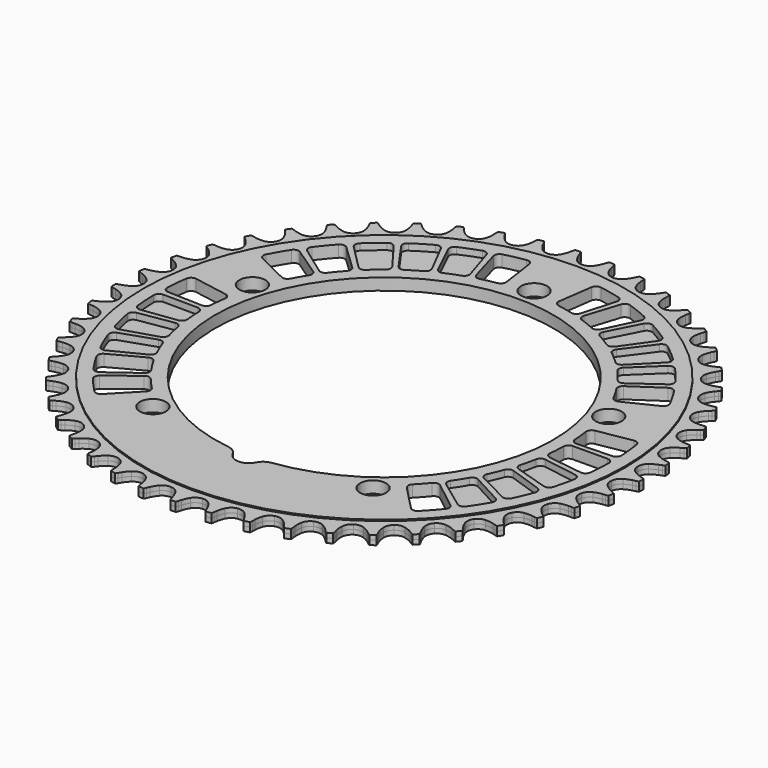
from build123d import *

# Parameters (mm, degrees)
F0_R     = 92.52693085
F1_DEPTH = 1.75
F0_R_2   = 5
F2_DEPTH = 2.25
F3_R     = 5.08
F5_DEPTH = 4.5
F6_DEPTH = 2.5
F7_R     = 2


with BuildPart() as f1:
    # F0 (on Top) → F1 (new body, symmetric)
    with BuildSketch(Plane.XY):
        with BuildLine():
            ThreePointArc((0, 95.02693085), (-1.8158450011, 95.4609959511), (-3.2390832139, 96.6693413361))
            ThreePointArc((-3.2390832139, 96.6693413361), (-4.0555243354, 97.9588456182), (-4.6743110338, 99.3540160092))
            Line((-4.6743110338, 99.3540160092), (-5.0611018288, 100.4543689823))
            ThreePointArc((-5.0611018288, 100.4543689823), (-5.2389551467, 100.905096531), (-5.4503528543, 101.3410989795))
            ThreePointArc((-5.4503528543, 101.3410989795), (-6.5023302484, 101.279042205), (-7.5536065668, 101.2060656109))
            ThreePointArc((-7.5536065668, 101.2060656109), (-7.7075139465, 100.7466097977), (-7.8262693315, 100.2768393384))
            Line((-7.8262693315, 100.2768393384), (-8.0691745644, 99.136058539))
            ThreePointArc((-8.0691745644, 99.136058539), (-8.5044706029, 97.6732137909), (-9.1493106065, 96.2898921479))
            ThreePointArc((-9.1493106065, 96.2898921479), (-10.4063442751, 94.9094675987), (-12.1517742007, 94.2467610613))
            ThreePointArc((-12.1517742007, 94.2467610613), (-14.0082181525, 94.4450573892), (-15.5742913775, 95.4614826121))
            ThreePointArc((-15.5742913775, 95.4614826121), (-16.5489276762, 96.6359959086), (-17.3410445741, 97.9405832833))
            Line((-17.3410445741, 97.9405832833), (-17.865369837, 98.9824406647))
            ThreePointArc((-17.865369837, 98.9824406647), (-18.0994007413, 99.4067243689), (-18.3648176322, 99.8121143046))
            ThreePointArc((-18.3648176322, 99.8121143046), (-19.4002226622, 99.616043132), (-20.4335359769, 99.409231443))
            ThreePointArc((-20.4335359769, 99.409231443), (-20.5274258738, 98.9338665167), (-20.5851333658, 98.4527667649))
            Line((-20.5851333658, 98.4527667649), (-20.6801645393, 97.2902897284))
            ThreePointArc((-20.6801645393, 97.2902897284), (-20.924822369, 95.7837904935), (-21.3874729996, 94.3293655926))
            ThreePointArc((-21.3874729996, 94.3293655926), (-22.457661666, 92.7995284123), (-24.104016605, 91.9190620616))
            ThreePointArc((-24.104016605, 91.9190620616), (-25.9705767492, 91.8783335959), (-27.6537701072, 92.6861489829))
            ThreePointArc((-27.6537701072, 92.6861489829), (-28.7705980821, 93.7263858179), (-29.7230386418, 94.9189688877))
            Line((-29.7230386418, 94.9189688877), (-30.3762889664, 95.8852234079))
            ThreePointArc((-30.3762889664, 95.8852234079), (-30.662654676, 96.276096541), (-30.9777326123, 96.6442174722))
            ThreePointArc((-30.9777326123, 96.6442174722), (-31.9795639563, 96.3173513848), (-32.9779472912, 95.9801004431))
            ThreePointArc((-32.9779472912, 95.9801004431), (-33.0102780358, 95.4966318828), (-33.0059900793, 95.012102483))
            Line((-33.0059900793, 95.012102483), (-32.9515867842, 93.8470170501))
            ThreePointArc((-32.9515867842, 93.8470170501), (-33.0015891303, 92.3216000043), (-33.2744536774, 90.8199534623))
            ThreePointArc((-33.2744536774, 90.8199534623), (-34.1402248732, 89.1658235349), (-35.660471723, 88.082054604))
            ThreePointArc((-35.660471723, 88.082054604), (-37.5064991936, 87.8029701052), (-39.2791746963, 88.3889113498))
            ThreePointArc((-39.2791746963, 88.3889113498), (-40.5198560628, 89.2777910632), (-41.6169812368, 90.338787647))
            Line((-41.6169812368, 90.338787647), (-42.3884302708, 91.2135734336))
            ThreePointArc((-42.3884302708, 91.2135734336), (-42.7224286687, 91.5646178696), (-43.0819940793, 91.8894252608))
            ThreePointArc((-43.0819940793, 91.8894252608), (-44.0338016943, 91.4371313907), (-44.9808616226, 90.9749788475))
            ThreePointArc((-44.9808616226, 90.9749788475), (-44.951102345, 90.4913451935), (-44.8848893482, 90.011342105))
            Line((-44.8848893482, 90.011342105), (-44.6819448851, 88.8627789464))
            ThreePointArc((-44.6819448851, 88.8627789464), (-44.5364707104, 87.3434913954), (-44.6150687458, 85.8192802069))
            ThreePointArc((-44.6150687458, 85.8192802069), (-45.2622065318, 84.0680183002), (-46.6313828812, 82.798742245))
            ThreePointArc((-46.6313828812, 82.798742245), (-48.4265659582, 82.2858842727), (-50.2596163228, 82.640330236))
            ThreePointArc((-50.2596163228, 82.640330236), (-51.6037791273, 83.3632574475), (-52.8275741505, 84.2752460108))
            Line((-52.8275741505, 84.2752460108), (-53.704554722, 85.0441991053))
            ThreePointArc((-53.704554722, 85.0441991053), (-54.0807015638, 85.3496507042), (-54.4788503946, 85.6258112271))
            ThreePointArc((-54.4788503946, 85.6258112271), (-55.3650056259, 85.0555162271), (-56.2451914498, 84.4760506143))
            ThreePointArc((-56.2451914498, 84.4760506143), (-56.1538307965, 84.0001931179), (-56.0267799749, 83.5325979782))
            Line((-56.0267799749, 83.5325979782), (-55.6786266864, 82.4194164692))
            ThreePointArc((-55.6786266864, 82.4194164692), (-55.3400646728, 80.9312050725), (-55.2231056188, 79.4094567431))
            ThreePointArc((-55.2231056188, 79.4094567431), (-55.6409840105, 77.5898185292), (-56.8366080216, 76.1558768275))
            ThreePointArc((-56.8366080216, 76.1558768275), (-58.5514698486, 75.4176664954), (-60.4147964388, 75.5347971844))
            ThreePointArc((-60.4147964388, 75.5347971844), (-61.8403695652, 76.0799014492), (-63.1707397571, 76.827907165))
            Line((-63.1707397571, 76.827907165), (-64.1388518694, 77.4784013789))
            ThreePointArc((-64.1388518694, 77.4784013789), (-64.5509708344, 77.7332446338), (-64.9811654926, 77.9562237402))
            ThreePointArc((-64.9811654926, 77.9562237402), (-65.7871176958, 77.2772918385), (-66.5859767884, 76.5900279655))
            ThreePointArc((-66.5859767884, 76.5900279655), (-66.4345148987, 76.1297601936), (-66.2487124234, 75.682250902))
            Line((-66.2487124234, 75.682250902), (-65.7610669767, 74.6227294521))
            ThreePointArc((-65.7610669767, 74.6227294521), (-65.2349763032, 73.1900305998), (-64.9243806242, 71.695732195))
            ThreePointArc((-64.9243806242, 71.695732195), (-65.10613807, 69.837596083), (-66.1085776297, 68.2625340179))
            ThreePointArc((-66.1085776297, 68.2625340179), (-67.7149602228, 67.3110927193), (-69.5779672675, 67.1889848513))
            ThreePointArc((-69.5779672675, 67.1889848513), (-71.0615428444, 67.5473155725), (-72.4766435633, 68.1190562075))
            Line((-72.4766435633, 68.1190562075), (-73.5199908423, 68.6404104438))
            ThreePointArc((-73.5199908423, 68.6404104438), (-73.9613149484, 68.8404608356), (-74.4164916497, 69.0065972148))
            ThreePointArc((-74.4164916497, 69.0065972148), (-75.1290071119, 68.2301764544), (-75.8334222289, 67.4463991749))
            ThreePointArc((-75.8334222289, 67.4463991749), (-75.624346103, 67.0092787116), (-75.3828428454, 66.5892033583))
            Line((-75.3828428454, 66.5892033583), (-74.7637123653, 65.6007392805))
            ThreePointArc((-74.7637123653, 65.6007392805), (-74.0587314262, 64.2470778481), (-73.5595990948, 62.8047657064))
            ThreePointArc((-73.5595990948, 62.8047657064), (-73.5022511424, 60.9386422399), (-74.2950462208, 59.2483222869))
            ThreePointArc((-74.2950462208, 59.2483222869), (-75.7665728223, 58.0992726617), (-77.5986697972, 57.7399312445))
            ThreePointArc((-77.5986697972, 57.7399312445), (-79.1158875548, 57.9056046415), (-80.5924828859, 58.2916922304))
            Line((-80.5924828859, 58.2916922304), (-81.6939335982, 58.6753458669))
            ThreePointArc((-81.6939335982, 58.6753458669), (-82.1572163158, 58.8173185737), (-82.6299010713, 58.9238842709))
            ThreePointArc((-82.6299010713, 58.9238842709), (-83.2372803082, 58.0627234592), (-83.835684973, 57.1953023745))
            ThreePointArc((-83.835684973, 57.1953023745), (-83.5724276351, 56.7885067258), (-83.279189072, 56.4027629364))
            Line((-83.279189072, 56.4027629364), (-82.5387396639, 55.5015867836))
            ThreePointArc((-82.5387396639, 55.5015867836), (-81.6664442267, 54.2491898543), (-80.9869709818, 52.8825467012))
            ThreePointArc((-80.9869709818, 52.8825467012), (-80.6914592831, 51.039077576), (-81.261592207, 49.261254742))
            ThreePointArc((-81.261592207, 49.261254742), (-82.5741003906, 47.9334641532), (-84.3452043143, 47.342789563))
            ThreePointArc((-84.3452043143, 47.342789563), (-85.8711515788, 47.3130852832), (-87.3849958677, 47.5071802784))
            Line((-87.3849958677, 47.5071802784), (-88.526464223, 47.746833733))
            ThreePointArc((-88.526464223, 47.746833733), (-89.0040984626, 47.8283975669), (-89.4865298017, 47.8736427763))
            ThreePointArc((-89.4865298017, 47.8736427763), (-89.9787996631, 46.9418821501), (-90.4613680876, 46.0050602904))
            ThreePointArc((-90.4613680876, 46.0050602904), (-90.1482522158, 45.6352690295), (-89.8080933163, 45.2901907065))
            Line((-89.8080933163, 45.2901907065), (-88.9584831391, 44.4910997661))
            ThreePointArc((-88.9584831391, 44.4910997661), (-87.9331962707, 43.3605316629), (-87.0845390444, 42.0919977413))
            ThreePointArc((-87.0845390444, 42.0919977413), (-86.5557158933, 40.3014526693), (-86.8938250957, 38.4653187561))
            ThreePointArc((-86.8938250957, 38.4653187561), (-88.0257635135, 36.9805894885), (-89.7067929083, 36.1682805857))
            ThreePointArc((-89.7067929083, 36.1682805857), (-91.2164136679, 35.9436863725), (-92.7426496332, 35.9426017396))
            Line((-92.7426496332, 35.9426017396), (-93.9053927526, 36.0343199093))
            ThreePointArc((-93.9053927526, 36.0343199093), (-94.3895357733, 36.0541355943), (-94.8737921867, 36.0373173908))
            ThreePointArc((-94.8737921867, 36.0373173908), (-95.2428696152, 35.0502564338), (-95.6016780392, 34.0594163883))
            ThreePointArc((-95.6016780392, 34.0594163883), (-95.2438449875, 33.7327014774), (-94.8623511514, 33.4339547973))
            Line((-94.8623511514, 33.4339547973), (-93.9175307805, 32.7500701204))
            ThreePointArc((-93.9175307805, 32.7500701204), (-92.756087663, 31.7598947404), (-91.7521813834, 30.6102993421))
            ThreePointArc((-91.7521813834, 30.6102993421), (-90.9987300414, 28.902079024), (-91.0992637786, 27.0377832997))
            ThreePointArc((-91.0992637786, 27.0377832997), (-92.0320460331, 25.4204945668), (-93.5953984429, 24.3998894411))
            ThreePointArc((-93.5953984429, 24.3998894411), (-95.0639047664, 23.9840931254), (-96.5774716557, 23.787846674))
            Line((-96.5774716557, 23.787846674), (-97.7423973294, 23.7301235489))
            ThreePointArc((-97.7423973294, 23.7301235489), (-98.2250995162, 23.6878657121), (-98.703229527, 23.6092602501))
            ThreePointArc((-98.703229527, 23.6092602501), (-98.9430542813, 22.5831064759), (-99.1722110803, 21.5545178106))
            ThreePointArc((-99.1722110803, 21.5545178106), (-98.7755364576, 21.2762438997), (-98.3589718031, 21.0287342746))
            Line((-98.3589718031, 21.0287342746), (-97.334455163, 20.4712852288))
            ThreePointArc((-97.334455163, 20.4712852288), (-96.0559266603, 19.6377612243), (-94.9132554407, 18.6259806739))
            ThreePointArc((-94.9132554407, 18.6259806739), (-93.947547558, 17.0281340401), (-93.8088550689, 15.166288189))
            ThreePointArc((-93.8088550689, 15.166288189), (-94.5271649011, 13.442995827), (-95.9471701226, 12.2308527864))
            ThreePointArc((-95.9471701226, 12.2308527864), (-97.3504491768, 11.6306817322), (-98.8264942637, 11.2424958236))
            Line((-98.8264942637, 11.2424958236), (-99.9744744443, 11.0362792158))
            ThreePointArc((-99.9744744443, 11.0362792158), (-100.4478098406, 10.9326417297), (-100.9119625672, 10.7935397088))
            ThreePointArc((-100.9119625672, 10.7935397088), (-101.0185967315, 9.745142534), (-101.1143391574, 8.6956946464))
            ThreePointArc((-101.1143391574, 8.6956946464), (-100.6853363498, 8.4704309853), (-100.2405408571, 8.2782225165))
            Line((-100.2405408571, 8.2782225165), (-99.1531504827, 7.8563623997))
            ThreePointArc((-99.1531504827, 7.8563623997), (-97.7785299974, 7.1931762118), (-96.5158564677, 6.3358239181))
            ThreePointArc((-96.5158564677, 6.3358239181), (-95.353748941, 4.8745875661), (-94.9781075524, 3.0457630455))
            ThreePointArc((-94.9781075524, 3.0457630455), (-95.4701503349, 1.2447634675), (-96.7234919215, -0.1390141328))
            ThreePointArc((-96.7234919215, -0.1390141328), (-98.0385019031, -0.9137051335), (-99.4527885681, -1.4874564974))
            Line((-99.4527885681, -1.4874564974), (-100.5649734528, -1.8387805168))
            ThreePointArc((-100.5649734528, -1.8387805168), (-101.0211699044, -2.0020959276), (-101.463723972, -2.1994104561))
            ThreePointArc((-101.463723972, -2.1994104561), (-101.4354166162, -3.2528363788), (-101.3961725809, -4.3059115835))
            ThreePointArc((-101.3961725809, -4.3059115835), (-100.9418858028, -4.4744661717), (-100.4761630015, -4.6082174264))
            Line((-100.4761630015, -4.6082174264), (-99.3437538127, -4.8875616828))
            ThreePointArc((-99.3437538127, -4.8875616828), (-97.8956125753, -5.3695205552), (-96.5336697999, -6.0583668914))
            ThreePointArc((-96.5336697999, -6.0583668914), (-95.1942444027, -7.358999501), (-94.5878221358, -9.1247734429))
            ThreePointArc((-94.5878221358, -9.1247734429), (-94.8455185395, -10.9739078738), (-95.9116166571, -12.5065984438))
            ThreePointArc((-95.9116166571, -12.5065984438), (-97.1167651386, -13.4430889862), (-98.4460708337, -14.1929848238))
            Line((-98.4460708337, -14.1929848238), (-99.5041983774, -14.6836475242))
            ThreePointArc((-99.5041983774, -14.6836475242), (-99.9357651513, -14.9039592251), (-100.3494538342, -15.1562463622))
            ThreePointArc((-100.3494538342, -15.1562463622), (-100.1866697644, -16.1974038083), (-100.0130836538, -17.2368148642))
            ThreePointArc((-100.0130836538, -17.2368148642), (-99.5409722817, -17.3458927178), (-99.0619693272, -17.4189905667))
            Line((-99.0619693272, -17.4189905667), (-97.9031354516, -17.5512321376))
            ThreePointArc((-97.9031354516, -17.5512321376), (-96.405251901, -17.8440499432), (-94.9664029427, -18.3530794839))
            ThreePointArc((-94.9664029427, -18.3530794839), (-93.471653003, -19.4717519997), (-92.6444072946, -21.1454814037))
            ThreePointArc((-92.6444072946, -21.1454814037), (-92.6635259519, -23.0123879512), (-93.5248752989, -24.6688247542))
            ThreePointArc((-93.5248752989, -24.6688247542), (-94.6003737755, -25.7517376893), (-95.8228713379, -26.6654647318))
            Line((-95.8228713379, -26.6654647318), (-96.8095671156, -27.2874094452))
            ThreePointArc((-96.8095671156, -27.2874094452), (-97.2094178973, -27.5610999242), (-97.5874484388, -27.8642171219))
            ThreePointArc((-97.5874484388, -27.8642171219), (-97.2928605649, -28.876010315), (-96.9877826582, -29.8846901214))
            ThreePointArc((-96.9877826582, -29.8846901214), (-96.5055987476, -29.9325001851), (-96.0211808553, -29.9437443633))
            Line((-96.0211808553, -29.9437443633), (-94.854950313, -29.9267118459))
            ThreePointArc((-94.854950313, -29.9267118459), (-93.3319196559, -30.0255805244), (-91.8397903747, -30.3464350188))
            ThreePointArc((-91.8397903747, -30.3464350188), (-90.2142596452, -31.2647788689), (-89.179773847, -32.8189811445))
            ThreePointArc((-89.179773847, -32.8189811445), (-88.9600008299, -34.6730052546), (-89.6024580738, -36.4259896441))
            ThreePointArc((-89.6024580738, -36.4259896441), (-90.5306468903, -37.6375435716), (-91.6262629439, -38.7000984461))
            Line((-91.6262629439, -38.7000984461), (-92.5253254383, -39.4431128575))
            ThreePointArc((-92.5253254383, -39.4431128575), (-92.8868946889, -39.7656881245), (-93.223059838, -40.1146582069))
            ThreePointArc((-93.223059838, -40.1146582069), (-92.8015052847, -41.0804735307), (-92.3699449527, -42.041859593))
            ThreePointArc((-92.3699449527, -42.041859593), (-91.8856059501, -42.0276168268), (-91.4037272484, -41.9768227054))
            Line((-91.4037272484, -41.9768227054), (-90.2492495128, -41.8107957731))
            ThreePointArc((-90.2492495128, -41.8107957731), (-88.7260798703, -41.7140919035), (-87.2051709878, -41.8415029296))
            ThreePointArc((-87.2051709878, -41.8415029296), (-85.4755506381, -42.5444389335), (-84.2508109784, -43.9535941222))
            ThreePointArc((-84.2508109784, -43.9535941222), (-83.7957549538, -45.7642927703), (-84.2087709644, -47.585040791))
            ThreePointArc((-84.2087709644, -47.585040791), (-84.974409286, -48.9053420289), (-85.9251538455, -50.0992776138))
            Line((-85.9251538455, -50.0992776138), (-86.7218204752, -50.9511614472))
            ThreePointArc((-86.7218204752, -50.9511614472), (-87.0391712377, -51.3173248252), (-87.3279511719, -51.7064177132))
            ThreePointArc((-87.3279511719, -51.7064177132), (-86.7863518534, -52.6103965067), (-86.2353953048, -53.5087028924))
            ThreePointArc((-86.2353953048, -53.5087028924), (-85.7568540432, -53.4326411622), (-85.2854269671, -53.3206427792))
            Line((-85.2854269671, -53.3206427792), (-84.1616585306, -53.0083475896))
            ThreePointArc((-84.1616585306, -53.0083475896), (-82.6633603061, -52.7176590468), (-81.1386451042, -52.649534519))
            ThreePointArc((-81.1386451042, -52.649534519), (-79.3333354526, -53.125520487), (-77.9384521227, -54.3664902996))
            ThreePointArc((-77.9384521227, -54.3664902996), (-77.255585098, -56.104131864), (-77.4323781638, -57.9627468838))
            ThreePointArc((-77.4323781638, -57.9627468838), (-78.0228942306, -59.3701161222), (-78.8131560965, -60.6758280282))
            Line((-78.8131560965, -60.6758280282), (-79.4943456175, -61.6225933745))
            ThreePointArc((-79.4943456175, -61.6225933745), (-79.7622670011, -62.026332471), (-79.9989199619, -62.4491592701))
            ThreePointArc((-79.9989199619, -62.4491592701), (-79.3461689239, -63.2764582266), (-78.6848628501, -64.0969347697))
            ThreePointArc((-78.6848628501, -64.0969347697), (-78.2199769638, -63.9603030069), (-77.7667423329, -63.7889393726))
            Line((-77.7667423329, -63.7889393726), (-76.6921354421, -63.3355038042))
            ThreePointArc((-76.6921354421, -63.3355038042), (-75.2433106512, -62.855603686), (-73.7398249112, -62.5930622073))
            ThreePointArc((-73.7398249112, -62.5930622073), (-71.8884690923, -62.8342824628), (-70.3463460379, -63.8866902093))
            ThreePointArc((-70.3463460379, -63.8866902093), (-69.4468806707, -65.5227426636), (-69.3845478545, -67.3887062752))
            ThreePointArc((-69.3845478545, -67.3887062752), (-69.7902454089, -68.8600345501), (-70.4070485033, -70.2560830239))
            Line((-70.4070485033, -70.2560830239), (-70.9615758025, -71.2821840222))
            ThreePointArc((-70.9615758025, -71.2821840222), (-71.1756685455, -71.7168694525), (-71.3563086978, -72.1664873583))
            ThreePointArc((-71.3563086978, -72.1664873583), (-70.6031240944, -72.9035222518), (-69.8423271228, -73.6326967501))
            ThreePointArc((-69.8423271228, -73.6326967501), (-69.3987300252, -73.4377384445), (-68.9711299395, -73.2098233451))
            Line((-68.9711299395, -73.2098233451), (-67.9633296099, -72.6226927973))
            ThreePointArc((-67.9633296099, -72.6226927973), (-66.5877679155, -71.9614610504), (-65.1301988318, -71.5088135445))
            ThreePointArc((-65.1301988318, -71.5088135445), (-63.263196057, -71.5113072577), (-61.5991548959, -72.357872432))
            ThreePointArc((-61.5991548959, -72.357872432), (-60.4978603828, -73.86547184), (-60.1974251877, -75.7081449726))
            ThreePointArc((-60.1974251877, -75.7081449726), (-60.411642687, -77.2192731145), (-60.8448591202, -78.6827350786))
            Line((-60.8448591202, -78.6827350786), (-61.2636188746, -79.771323179))
            ThreePointArc((-61.2636188746, -79.771323179), (-61.4203675801, -80.2298174202), (-61.5420288177, -80.6988437192))
            ThreePointArc((-61.5420288177, -80.6988437192), (-60.7007779192, -81.3335124571), (-59.852982315, -81.9594118855))
            ThreePointArc((-59.852982315, -81.9594118855), (-59.4379578582, -81.7093282472), (-59.0430134993, -81.4286040423))
            Line((-59.0430134993, -81.4286040423), (-58.1185677845, -80.7174191825))
            ThreePointArc((-58.1185677845, -80.7174191825), (-56.8388558716, -79.8857132139), (-55.4511366882, -79.2503921404))
            ThreePointArc((-55.4511366882, -79.2503921404), (-53.5991430914, -79.0141183645), (-51.8405073336, -79.6409403898))
            ThreePointArc((-51.8405073336, -79.6409403898), (-50.5554668999, -80.995332011), (-50.0218624635, -82.7844580226))
            ThreePointArc((-50.0218624635, -82.7844580226), (-50.0410824624, -84.3105733492), (-50.2835988324, -85.8174187986))
            Line((-50.2835988324, -85.8174187986), (-50.5597150186, -86.9506194146))
            ThreePointArc((-50.5597150186, -86.9506194146), (-50.6565458771, -87.425394004), (-50.7172305257, -87.9061272973))
            ThreePointArc((-50.7172305257, -87.9061272973), (-49.8017266487, -88.4280086365), (-48.8808531923, -88.9403557436))
            ThreePointArc((-48.8808531923, -88.9403557436), (-48.5012160664, -88.639253139), (-48.1454124097, -88.3103293123))
            Line((-48.1454124097, -88.3103293123), (-47.3195006828, -87.4867677762))
            ThreePointArc((-47.3195006828, -87.4867677762), (-46.1566513856, -86.4982441749), (-44.8615684132, -85.6906814883))
            ThreePointArc((-44.8615684132, -85.6906814883), (-43.054993678, -85.2195198322), (-41.2306400741, -85.6163063082))
            ThreePointArc((-41.2306400741, -85.6163063082), (-39.7829540483, -86.7952510696), (-39.0249421407, -88.5014525606))
            ThreePointArc((-39.0249421407, -88.5014525606), (-38.8488490473, -90.0174963003), (-38.8966832421, -91.5429828745))
            Line((-38.8966832421, -91.5429828745), (-39.0256220397, -92.7021888833))
            ThreePointArc((-39.0256220397, -92.7021888833), (-39.0609450913, -93.1854480352), (-39.0596567107, -93.6699946955))
            ThreePointArc((-39.0596567107, -93.6699946955), (-38.0849324035, -94.0705193588), (-37.1061018116, -94.4609014194))
            ThreePointArc((-37.1061018116, -94.4609014194), (-36.7680856477, -94.1137239448), (-36.4572649795, -93.7420014165))
            Line((-36.4572649795, -93.7420014165), (-35.7434486881, -92.8195860618))
            ThreePointArc((-35.7434486881, -92.8195860618), (-34.71655596, -91.690476358), (-33.5353744251, -90.7239322152))
            ThreePointArc((-33.5353744251, -90.7239322152), (-31.8038824589, -90.0256191403), (-29.9437668444, -90.185854844))
            ThreePointArc((-29.9437668444, -90.185854844), (-28.357206191, -91.1699945053), (-27.3872333467, -92.7652556943))
            ThreePointArc((-27.3872333467, -92.7652556943), (-27.0187186048, -94.2463344509), (-26.8710851882, -95.7654137025))
            Line((-26.8710851882, -95.7654137025), (-26.8507294259, -96.9315909735))
            ThreePointArc((-26.8507294259, -96.9315909735), (-26.823964667, -97.415399586), (-26.7607244124, -97.8958033704))
            ThreePointArc((-26.7607244124, -97.8958033704), (-25.7427846212, -98.1683947539), (-24.7220692649, -98.4304017053))
            ThreePointArc((-24.7220692649, -98.4304017053), (-24.4312242792, -98.0428500054), (-24.1704902662, -97.634432449))
            Line((-24.1704902662, -97.634432449), (-23.5804902542, -96.6283093103))
            ThreePointArc((-23.5804902542, -96.6283093103), (-22.7064156453, -95.3771534542), (-21.6585305161, -94.2674984833))
            ThreePointArc((-21.6585305161, -94.2674984833), (-20.0305523689, -93.353500271), (-18.165217791, -93.2745541366))
            ThreePointArc((-18.165217791, -93.2745541366), (-16.465833792, -94.0477291517), (-15.2998269384, -95.5058558942))
            ThreePointArc((-15.2998269384, -95.5058558942), (-14.7449415498, -96.9276503954), (-14.4042646584, -98.415379085))
            Line((-14.4042646584, -98.415379085), (-14.2349485772, -99.5693790196))
            ThreePointArc((-14.2349485772, -99.5693790196), (-14.1465354845, -100.0457929687), (-14.0223817591, -100.5141656604))
            ThreePointArc((-14.0223817591, -100.5141656604), (-12.977941027, -100.6543478212), (-11.9321010245, -100.7836775165))
            ThreePointArc((-11.9321010245, -100.7836775165), (-11.6932028834, -100.3621151794), (-11.486836771, -99.9237088))
            Line((-11.486836771, -99.9237088), (-11.0303408222, -98.8503983914))
            ThreePointArc((-11.0303408222, -98.8503983914), (-10.3234366135, -97.4977403275), (-9.4260541349, -96.2631950325))
            ThreePointArc((-9.4260541349, -96.2631950325), (-7.9283211629, -95.1485195081), (-6.0883963637, -94.831687829))
            ThreePointArc((-6.0883963637, -94.831687829), (-4.3040928574, -95.3812026855), (-2.9611977947, -96.6782525806))
            ThreePointArc((-2.9611977947, -96.6782525806), (-2.2290529621, -98.0174170001), (-1.7009265012, -99.4493666638))
            Line((-1.7009265012, -99.4493666638), (-1.3854302664, -100.572240615))
            ThreePointArc((-1.3854302664, -100.572240615), (-1.2368205804, -101.0334371968), (-1.0537919849, -101.4820881292))
            ThreePointArc((-1.0537919849, -101.4820881292), (0, -101.48755928), (1.0537919849, -101.4820881292))
            ThreePointArc((1.0537919849, -101.4820881292), (1.2368205804, -101.0334371968), (1.3854302664, -100.572240615))
            Line((1.3854302664, -100.572240615), (1.7009265012, -99.4493666638))
            ThreePointArc((1.7009265012, -99.4493666638), (2.2290529621, -98.0174170001), (2.9611977947, -96.6782525806))
            ThreePointArc((2.9611977947, -96.6782525806), (4.3040928574, -95.3812026855), (6.0883963637, -94.831687829))
            ThreePointArc((6.0883963637, -94.831687829), (7.9283211629, -95.1485195081), (9.4260541349, -96.2631950325))
            ThreePointArc((9.4260541349, -96.2631950325), (10.3234366135, -97.4977403275), (11.0303408222, -98.8503983914))
            Line((11.0303408222, -98.8503983914), (11.486836771, -99.9237088))
            ThreePointArc((11.486836771, -99.9237088), (11.6932028834, -100.3621151794), (11.9321010245, -100.7836775165))
            ThreePointArc((11.9321010245, -100.7836775165), (12.977941027, -100.6543478212), (14.0223817591, -100.5141656604))
            ThreePointArc((14.0223817591, -100.5141656604), (14.1465354845, -100.0457929687), (14.2349485772, -99.5693790196))
            Line((14.2349485772, -99.5693790196), (14.4042646584, -98.415379085))
            ThreePointArc((14.4042646584, -98.415379085), (14.7449415498, -96.9276503954), (15.2998269384, -95.5058558942))
            ThreePointArc((15.2998269384, -95.5058558942), (16.465833792, -94.0477291517), (18.165217791, -93.2745541366))
            ThreePointArc((18.165217791, -93.2745541366), (20.0305523689, -93.353500271), (21.6585305161, -94.2674984833))
            ThreePointArc((21.6585305161, -94.2674984833), (22.7064156453, -95.3771534542), (23.5804902542, -96.6283093103))
            Line((23.5804902542, -96.6283093103), (24.1704902662, -97.634432449))
            ThreePointArc((24.1704902662, -97.634432449), (24.4312242792, -98.0428500054), (24.7220692649, -98.4304017053))
            ThreePointArc((24.7220692649, -98.4304017053), (25.7427846212, -98.1683947539), (26.7607244124, -97.8958033704))
            ThreePointArc((26.7607244124, -97.8958033704), (26.823964667, -97.415399586), (26.8507294259, -96.9315909735))
            Line((26.8507294259, -96.9315909735), (26.8710851882, -95.7654137025))
            ThreePointArc((26.8710851882, -95.7654137025), (27.0187186048, -94.2463344509), (27.3872333467, -92.7652556943))
            ThreePointArc((27.3872333467, -92.7652556943), (28.357206191, -91.1699945053), (29.9437668444, -90.185854844))
            ThreePointArc((29.9437668444, -90.185854844), (31.8038824589, -90.0256191403), (33.5353744251, -90.7239322152))
            ThreePointArc((33.5353744251, -90.7239322152), (34.71655596, -91.690476358), (35.7434486881, -92.8195860618))
            Line((35.7434486881, -92.8195860618), (36.4572649795, -93.7420014165))
            ThreePointArc((36.4572649795, -93.7420014165), (36.7680856477, -94.1137239448), (37.1061018116, -94.4609014194))
            ThreePointArc((37.1061018116, -94.4609014194), (38.0849324035, -94.0705193588), (39.0596567107, -93.6699946955))
            ThreePointArc((39.0596567107, -93.6699946955), (39.0609450913, -93.1854480352), (39.0256220397, -92.7021888833))
            Line((39.0256220397, -92.7021888833), (38.8966832421, -91.5429828745))
            ThreePointArc((38.8966832421, -91.5429828745), (38.8488490473, -90.0174963003), (39.0249421407, -88.5014525606))
            ThreePointArc((39.0249421407, -88.5014525606), (39.7829540483, -86.7952510696), (41.2306400741, -85.6163063082))
            ThreePointArc((41.2306400741, -85.6163063082), (43.054993678, -85.2195198322), (44.8615684132, -85.6906814883))
            ThreePointArc((44.8615684132, -85.6906814883), (46.1566513856, -86.4982441749), (47.3195006828, -87.4867677762))
            Line((47.3195006828, -87.4867677762), (48.1454124097, -88.3103293123))
            ThreePointArc((48.1454124097, -88.3103293123), (48.5012160664, -88.639253139), (48.8808531923, -88.9403557436))
            ThreePointArc((48.8808531923, -88.9403557436), (49.8017266487, -88.4280086365), (50.7172305257, -87.9061272973))
            ThreePointArc((50.7172305257, -87.9061272973), (50.6565458771, -87.425394004), (50.5597150186, -86.9506194146))
            Line((50.5597150186, -86.9506194146), (50.2835988324, -85.8174187986))
            ThreePointArc((50.2835988324, -85.8174187986), (50.0410824624, -84.3105733492), (50.0218624635, -82.7844580226))
            ThreePointArc((50.0218624635, -82.7844580226), (50.5554668999, -80.995332011), (51.8405073336, -79.6409403898))
            ThreePointArc((51.8405073336, -79.6409403898), (53.5991430914, -79.0141183645), (55.4511366882, -79.2503921404))
            ThreePointArc((55.4511366882, -79.2503921404), (56.8388558716, -79.8857132139), (58.1185677845, -80.7174191825))
            Line((58.1185677845, -80.7174191825), (59.0430134993, -81.4286040423))
            ThreePointArc((59.0430134993, -81.4286040423), (59.4379578582, -81.7093282472), (59.852982315, -81.9594118855))
            ThreePointArc((59.852982315, -81.9594118855), (60.7007779192, -81.3335124571), (61.5420288177, -80.6988437192))
            ThreePointArc((61.5420288177, -80.6988437192), (61.4203675801, -80.2298174202), (61.2636188746, -79.771323179))
            Line((61.2636188746, -79.771323179), (60.8448591202, -78.6827350786))
            ThreePointArc((60.8448591202, -78.6827350786), (60.411642687, -77.2192731145), (60.1974251877, -75.7081449726))
            ThreePointArc((60.1974251877, -75.7081449726), (60.4978603828, -73.86547184), (61.5991548959, -72.357872432))
            ThreePointArc((61.5991548959, -72.357872432), (63.263196057, -71.5113072577), (65.1301988318, -71.5088135445))
            ThreePointArc((65.1301988318, -71.5088135445), (66.5877679155, -71.9614610504), (67.9633296099, -72.6226927973))
            Line((67.9633296099, -72.6226927973), (68.9711299395, -73.2098233451))
            ThreePointArc((68.9711299395, -73.2098233451), (69.3987300252, -73.4377384445), (69.8423271228, -73.6326967501))
            ThreePointArc((69.8423271228, -73.6326967501), (70.6031240944, -72.9035222518), (71.3563086978, -72.1664873583))
            ThreePointArc((71.3563086978, -72.1664873583), (71.1756685455, -71.7168694525), (70.9615758025, -71.2821840222))
            Line((70.9615758025, -71.2821840222), (70.4070485033, -70.2560830239))
            ThreePointArc((70.4070485033, -70.2560830239), (69.7902454089, -68.8600345501), (69.3845478545, -67.3887062752))
            ThreePointArc((69.3845478545, -67.3887062752), (69.4468806707, -65.5227426636), (70.3463460379, -63.8866902093))
            ThreePointArc((70.3463460379, -63.8866902093), (71.8884690923, -62.8342824628), (73.7398249112, -62.5930622073))
            ThreePointArc((73.7398249112, -62.5930622073), (75.2433106512, -62.855603686), (76.6921354421, -63.3355038042))
            Line((76.6921354421, -63.3355038042), (77.7667423329, -63.7889393726))
            ThreePointArc((77.7667423329, -63.7889393726), (78.2199769638, -63.9603030069), (78.6848628501, -64.0969347697))
            ThreePointArc((78.6848628501, -64.0969347697), (79.3461689239, -63.2764582266), (79.9989199619, -62.4491592701))
            ThreePointArc((79.9989199619, -62.4491592701), (79.7622670011, -62.026332471), (79.4943456175, -61.6225933745))
            Line((79.4943456175, -61.6225933745), (78.8131560965, -60.6758280282))
            ThreePointArc((78.8131560965, -60.6758280282), (78.0228942306, -59.3701161222), (77.4323781638, -57.9627468838))
            ThreePointArc((77.4323781638, -57.9627468838), (77.255585098, -56.104131864), (77.9384521227, -54.3664902996))
            ThreePointArc((77.9384521227, -54.3664902996), (79.3333354526, -53.125520487), (81.1386451042, -52.649534519))
            ThreePointArc((81.1386451042, -52.649534519), (82.6633603061, -52.7176590468), (84.1616585306, -53.0083475896))
            Line((84.1616585306, -53.0083475896), (85.2854269671, -53.3206427792))
            ThreePointArc((85.2854269671, -53.3206427792), (85.7568540432, -53.4326411622), (86.2353953048, -53.5087028924))
            ThreePointArc((86.2353953048, -53.5087028924), (86.7863518534, -52.6103965067), (87.3279511719, -51.7064177132))
            ThreePointArc((87.3279511719, -51.7064177132), (87.0391712377, -51.3173248252), (86.7218204752, -50.9511614472))
            Line((86.7218204752, -50.9511614472), (85.9251538455, -50.0992776138))
            ThreePointArc((85.9251538455, -50.0992776138), (84.974409286, -48.9053420289), (84.2087709644, -47.585040791))
            ThreePointArc((84.2087709644, -47.585040791), (83.7957549538, -45.7642927703), (84.2508109784, -43.9535941222))
            ThreePointArc((84.2508109784, -43.9535941222), (85.4755506381, -42.5444389335), (87.2051709878, -41.8415029296))
            ThreePointArc((87.2051709878, -41.8415029296), (88.7260798703, -41.7140919035), (90.2492495128, -41.8107957731))
            Line((90.2492495128, -41.8107957731), (91.4037272484, -41.9768227054))
            ThreePointArc((91.4037272484, -41.9768227054), (91.8856059501, -42.0276168268), (92.3699449527, -42.041859593))
            ThreePointArc((92.3699449527, -42.041859593), (92.8015052847, -41.0804735307), (93.223059838, -40.1146582069))
            ThreePointArc((93.223059838, -40.1146582069), (92.8868946889, -39.7656881245), (92.5253254383, -39.4431128575))
            Line((92.5253254383, -39.4431128575), (91.6262629439, -38.7000984461))
            ThreePointArc((91.6262629439, -38.7000984461), (90.5306468903, -37.6375435716), (89.6024580738, -36.4259896441))
            ThreePointArc((89.6024580738, -36.4259896441), (88.9600008299, -34.6730052546), (89.179773847, -32.8189811445))
            ThreePointArc((89.179773847, -32.8189811445), (90.2142596452, -31.2647788689), (91.8397903747, -30.3464350188))
            ThreePointArc((91.8397903747, -30.3464350188), (93.3319196559, -30.0255805244), (94.854950313, -29.9267118459))
            Line((94.854950313, -29.9267118459), (96.0211808553, -29.9437443633))
            ThreePointArc((96.0211808553, -29.9437443633), (96.5055987476, -29.9325001851), (96.9877826582, -29.8846901214))
            ThreePointArc((96.9877826582, -29.8846901214), (97.2928605649, -28.876010315), (97.5874484388, -27.8642171219))
            ThreePointArc((97.5874484388, -27.8642171219), (97.2094178973, -27.5610999242), (96.8095671156, -27.2874094452))
            Line((96.8095671156, -27.2874094452), (95.8228713379, -26.6654647318))
            ThreePointArc((95.8228713379, -26.6654647318), (94.6003737755, -25.7517376893), (93.5248752989, -24.6688247542))
            ThreePointArc((93.5248752989, -24.6688247542), (92.6635259519, -23.0123879512), (92.6444072946, -21.1454814037))
            ThreePointArc((92.6444072946, -21.1454814037), (93.471653003, -19.4717519997), (94.9664029427, -18.3530794839))
            ThreePointArc((94.9664029427, -18.3530794839), (96.405251901, -17.8440499432), (97.9031354516, -17.5512321376))
            Line((97.9031354516, -17.5512321376), (99.0619693272, -17.4189905667))
            ThreePointArc((99.0619693272, -17.4189905667), (99.5409722817, -17.3458927178), (100.0130836538, -17.2368148642))
            ThreePointArc((100.0130836538, -17.2368148642), (100.1866697644, -16.1974038083), (100.3494538342, -15.1562463622))
            ThreePointArc((100.3494538342, -15.1562463622), (99.9357651513, -14.9039592251), (99.5041983774, -14.6836475242))
            Line((99.5041983774, -14.6836475242), (98.4460708337, -14.1929848238))
            ThreePointArc((98.4460708337, -14.1929848238), (97.1167651386, -13.4430889862), (95.9116166571, -12.5065984438))
            ThreePointArc((95.9116166571, -12.5065984438), (94.8455185395, -10.9739078738), (94.5878221358, -9.1247734429))
            ThreePointArc((94.5878221358, -9.1247734429), (95.1942444027, -7.358999501), (96.5336697999, -6.0583668914))
            ThreePointArc((96.5336697999, -6.0583668914), (97.8956125753, -5.3695205552), (99.3437538127, -4.8875616828))
            Line((99.3437538127, -4.8875616828), (100.4761630015, -4.6082174264))
            ThreePointArc((100.4761630015, -4.6082174264), (100.9418858028, -4.4744661717), (101.3961725809, -4.3059115835))
            ThreePointArc((101.3961725809, -4.3059115835), (101.4354166162, -3.2528363788), (101.463723972, -2.1994104561))
            ThreePointArc((101.463723972, -2.1994104561), (101.0211699044, -2.0020959276), (100.5649734528, -1.8387805168))
            Line((100.5649734528, -1.8387805168), (99.4527885681, -1.4874564974))
            ThreePointArc((99.4527885681, -1.4874564974), (98.0385019031, -0.9137051335), (96.7234919215, -0.1390141328))
            ThreePointArc((96.7234919215, -0.1390141328), (95.4701503349, 1.2447634675), (94.9781075524, 3.0457630455))
            ThreePointArc((94.9781075524, 3.0457630455), (95.353748941, 4.8745875661), (96.5158564677, 6.3358239181))
            ThreePointArc((96.5158564677, 6.3358239181), (97.7785299974, 7.1931762118), (99.1531504827, 7.8563623997))
            Line((99.1531504827, 7.8563623997), (100.2405408571, 8.2782225165))
            ThreePointArc((100.2405408571, 8.2782225165), (100.6853363498, 8.4704309853), (101.1143391574, 8.6956946464))
            ThreePointArc((101.1143391574, 8.6956946464), (101.0185967315, 9.745142534), (100.9119625672, 10.7935397088))
            ThreePointArc((100.9119625672, 10.7935397088), (100.4478098406, 10.9326417297), (99.9744744443, 11.0362792158))
            Line((99.9744744443, 11.0362792158), (98.8264942637, 11.2424958236))
            ThreePointArc((98.8264942637, 11.2424958236), (97.3504491768, 11.6306817322), (95.9471701226, 12.2308527864))
            ThreePointArc((95.9471701226, 12.2308527864), (94.5271649011, 13.442995827), (93.8088550689, 15.166288189))
            ThreePointArc((93.8088550689, 15.166288189), (93.947547558, 17.0281340401), (94.9132554407, 18.6259806739))
            ThreePointArc((94.9132554407, 18.6259806739), (96.0559266603, 19.6377612243), (97.334455163, 20.4712852288))
            Line((97.334455163, 20.4712852288), (98.3589718031, 21.0287342746))
            ThreePointArc((98.3589718031, 21.0287342746), (98.7755364576, 21.2762438997), (99.1722110803, 21.5545178106))
            ThreePointArc((99.1722110803, 21.5545178106), (98.9430542813, 22.5831064759), (98.703229527, 23.6092602501))
            ThreePointArc((98.703229527, 23.6092602501), (98.2250995162, 23.6878657121), (97.7423973294, 23.7301235489))
            Line((97.7423973294, 23.7301235489), (96.5774716557, 23.787846674))
            ThreePointArc((96.5774716557, 23.787846674), (95.0639047664, 23.9840931254), (93.5953984429, 24.3998894411))
            ThreePointArc((93.5953984429, 24.3998894411), (92.0320460331, 25.4204945668), (91.0992637786, 27.0377832997))
            ThreePointArc((91.0992637786, 27.0377832997), (90.9987300414, 28.902079024), (91.7521813834, 30.6102993421))
            ThreePointArc((91.7521813834, 30.6102993421), (92.756087663, 31.7598947404), (93.9175307805, 32.7500701204))
            Line((93.9175307805, 32.7500701204), (94.8623511514, 33.4339547973))
            ThreePointArc((94.8623511514, 33.4339547973), (95.2438449875, 33.7327014774), (95.6016780392, 34.0594163883))
            ThreePointArc((95.6016780392, 34.0594163883), (95.2428696152, 35.0502564338), (94.8737921867, 36.0373173908))
            ThreePointArc((94.8737921867, 36.0373173908), (94.3895357733, 36.0541355943), (93.9053927526, 36.0343199093))
            Line((93.9053927526, 36.0343199093), (92.7426496332, 35.9426017396))
            ThreePointArc((92.7426496332, 35.9426017396), (91.2164136679, 35.9436863725), (89.7067929083, 36.1682805857))
            ThreePointArc((89.7067929083, 36.1682805857), (88.0257635135, 36.9805894885), (86.8938250957, 38.4653187561))
            ThreePointArc((86.8938250957, 38.4653187561), (86.5557158933, 40.3014526693), (87.0845390444, 42.0919977413))
            ThreePointArc((87.0845390444, 42.0919977413), (87.9331962707, 43.3605316629), (88.9584831391, 44.4910997661))
            Line((88.9584831391, 44.4910997661), (89.8080933163, 45.2901907065))
            ThreePointArc((89.8080933163, 45.2901907065), (90.1482522158, 45.6352690295), (90.4613680876, 46.0050602904))
            ThreePointArc((90.4613680876, 46.0050602904), (89.9787996631, 46.9418821501), (89.4865298017, 47.8736427763))
            ThreePointArc((89.4865298017, 47.8736427763), (89.0040984626, 47.8283975669), (88.526464223, 47.746833733))
            Line((88.526464223, 47.746833733), (87.3849958677, 47.5071802784))
            ThreePointArc((87.3849958677, 47.5071802784), (85.8711515788, 47.3130852832), (84.3452043143, 47.342789563))
            ThreePointArc((84.3452043143, 47.342789563), (82.5741003906, 47.9334641532), (81.261592207, 49.261254742))
            ThreePointArc((81.261592207, 49.261254742), (80.6914592831, 51.039077576), (80.9869709818, 52.8825467012))
            ThreePointArc((80.9869709818, 52.8825467012), (81.6664442267, 54.2491898543), (82.5387396639, 55.5015867836))
            Line((82.5387396639, 55.5015867836), (83.279189072, 56.4027629364))
            ThreePointArc((83.279189072, 56.4027629364), (83.5724276351, 56.7885067258), (83.835684973, 57.1953023745))
            ThreePointArc((83.835684973, 57.1953023745), (83.2372803082, 58.0627234592), (82.6299010713, 58.9238842709))
            ThreePointArc((82.6299010713, 58.9238842709), (82.1572163158, 58.8173185737), (81.6939335982, 58.6753458669))
            Line((81.6939335982, 58.6753458669), (80.5924828859, 58.2916922304))
            ThreePointArc((80.5924828859, 58.2916922304), (79.1158875548, 57.9056046415), (77.5986697972, 57.7399312445))
            ThreePointArc((77.5986697972, 57.7399312445), (75.7665728223, 58.0992726617), (74.2950462208, 59.2483222869))
            ThreePointArc((74.2950462208, 59.2483222869), (73.5022511424, 60.9386422399), (73.5595990948, 62.8047657064))
            ThreePointArc((73.5595990948, 62.8047657064), (74.0587314262, 64.2470778481), (74.7637123653, 65.6007392805))
            Line((74.7637123653, 65.6007392805), (75.3828428454, 66.5892033583))
            ThreePointArc((75.3828428454, 66.5892033583), (75.624346103, 67.0092787116), (75.8334222289, 67.4463991749))
            ThreePointArc((75.8334222289, 67.4463991749), (75.1290071119, 68.2301764544), (74.4164916497, 69.0065972148))
            ThreePointArc((74.4164916497, 69.0065972148), (73.9613149484, 68.8404608356), (73.5199908423, 68.6404104438))
            Line((73.5199908423, 68.6404104438), (72.4766435633, 68.1190562075))
            ThreePointArc((72.4766435633, 68.1190562075), (71.0615428444, 67.5473155725), (69.5779672675, 67.1889848513))
            ThreePointArc((69.5779672675, 67.1889848513), (67.7149602228, 67.3110927193), (66.1085776297, 68.2625340179))
            ThreePointArc((66.1085776297, 68.2625340179), (65.10613807, 69.837596083), (64.9243806242, 71.695732195))
            ThreePointArc((64.9243806242, 71.695732195), (65.2349763032, 73.1900305998), (65.7610669767, 74.6227294521))
            Line((65.7610669767, 74.6227294521), (66.2487124234, 75.682250902))
            ThreePointArc((66.2487124234, 75.682250902), (66.4345148987, 76.1297601936), (66.5859767884, 76.5900279655))
            ThreePointArc((66.5859767884, 76.5900279655), (65.7871176958, 77.2772918385), (64.9811654926, 77.9562237402))
            ThreePointArc((64.9811654926, 77.9562237402), (64.5509708344, 77.7332446338), (64.1388518694, 77.4784013789))
            Line((64.1388518694, 77.4784013789), (63.1707397571, 76.827907165))
            ThreePointArc((63.1707397571, 76.827907165), (61.8403695652, 76.0799014492), (60.4147964388, 75.5347971844))
            ThreePointArc((60.4147964388, 75.5347971844), (58.5514698486, 75.4176664954), (56.8366080216, 76.1558768275))
            ThreePointArc((56.8366080216, 76.1558768275), (55.6409840105, 77.5898185292), (55.2231056188, 79.4094567431))
            ThreePointArc((55.2231056188, 79.4094567431), (55.3400646728, 80.9312050725), (55.6786266864, 82.4194164692))
            Line((55.6786266864, 82.4194164692), (56.0267799749, 83.5325979782))
            ThreePointArc((56.0267799749, 83.5325979782), (56.1538307965, 84.0001931179), (56.2451914498, 84.4760506143))
            ThreePointArc((56.2451914498, 84.4760506143), (55.3650056259, 85.0555162271), (54.4788503946, 85.6258112271))
            ThreePointArc((54.4788503946, 85.6258112271), (54.0807015638, 85.3496507042), (53.704554722, 85.0441991053))
            Line((53.704554722, 85.0441991053), (52.8275741505, 84.2752460108))
            ThreePointArc((52.8275741505, 84.2752460108), (51.6037791273, 83.3632574475), (50.2596163228, 82.640330236))
            ThreePointArc((50.2596163228, 82.640330236), (48.4265659582, 82.2858842727), (46.6313828812, 82.798742245))
            ThreePointArc((46.6313828812, 82.798742245), (45.2622065318, 84.0680183002), (44.6150687458, 85.8192802069))
            ThreePointArc((44.6150687458, 85.8192802069), (44.5364707104, 87.3434913954), (44.6819448851, 88.8627789464))
            Line((44.6819448851, 88.8627789464), (44.8848893482, 90.011342105))
            ThreePointArc((44.8848893482, 90.011342105), (44.951102345, 90.4913451935), (44.9808616226, 90.9749788475))
            ThreePointArc((44.9808616226, 90.9749788475), (44.0338016943, 91.4371313907), (43.0819940793, 91.8894252608))
            ThreePointArc((43.0819940793, 91.8894252608), (42.7224286687, 91.5646178696), (42.3884302708, 91.2135734336))
            Line((42.3884302708, 91.2135734336), (41.6169812368, 90.338787647))
            ThreePointArc((41.6169812368, 90.338787647), (40.5198560628, 89.2777910632), (39.2791746963, 88.3889113498))
            ThreePointArc((39.2791746963, 88.3889113498), (37.5064991936, 87.8029701052), (35.660471723, 88.082054604))
            ThreePointArc((35.660471723, 88.082054604), (34.1402248732, 89.1658235349), (33.2744536774, 90.8199534623))
            ThreePointArc((33.2744536774, 90.8199534623), (33.0015891303, 92.3216000043), (32.9515867842, 93.8470170501))
            Line((32.9515867842, 93.8470170501), (33.0059900793, 95.012102483))
            ThreePointArc((33.0059900793, 95.012102483), (33.0102780358, 95.4966318828), (32.9779472912, 95.9801004431))
            ThreePointArc((32.9779472912, 95.9801004431), (31.9795639563, 96.3173513848), (30.9777326123, 96.6442174722))
            ThreePointArc((30.9777326123, 96.6442174722), (30.662654676, 96.276096541), (30.3762889664, 95.8852234079))
            Line((30.3762889664, 95.8852234079), (29.7230386418, 94.9189688877))
            ThreePointArc((29.7230386418, 94.9189688877), (28.7705980821, 93.7263858179), (27.6537701072, 92.6861489829))
            ThreePointArc((27.6537701072, 92.6861489829), (25.9705767492, 91.8783335959), (24.104016605, 91.9190620616))
            ThreePointArc((24.104016605, 91.9190620616), (22.457661666, 92.7995284123), (21.3874729996, 94.3293655926))
            ThreePointArc((21.3874729996, 94.3293655926), (20.924822369, 95.7837904935), (20.6801645393, 97.2902897284))
            Line((20.6801645393, 97.2902897284), (20.5851333658, 98.4527667649))
            ThreePointArc((20.5851333658, 98.4527667649), (20.5274258738, 98.9338665167), (20.4335359769, 99.409231443))
            ThreePointArc((20.4335359769, 99.409231443), (19.4002226622, 99.616043132), (18.3648176322, 99.8121143046))
            ThreePointArc((18.3648176322, 99.8121143046), (18.0994007413, 99.4067243689), (17.865369837, 98.9824406647))
            Line((17.865369837, 98.9824406647), (17.3410445741, 97.9405832833))
            ThreePointArc((17.3410445741, 97.9405832833), (16.5489276762, 96.6359959086), (15.5742913775, 95.4614826121))
            ThreePointArc((15.5742913775, 95.4614826121), (14.0082181525, 94.4450573892), (12.1517742007, 94.2467610613))
            ThreePointArc((12.1517742007, 94.2467610613), (10.4063442751, 94.9094675987), (9.1493106065, 96.2898921479))
            ThreePointArc((9.1493106065, 96.2898921479), (8.5044706029, 97.6732137909), (8.0691745644, 99.136058539))
            Line((8.0691745644, 99.136058539), (7.8262693315, 100.2768393384))
            ThreePointArc((7.8262693315, 100.2768393384), (7.7075139465, 100.7466097977), (7.5536065668, 101.2060656109))
            ThreePointArc((7.5536065668, 101.2060656109), (6.5023302484, 101.279042205), (5.4503528543, 101.3410989795))
            ThreePointArc((5.4503528543, 101.3410989795), (5.2389551467, 100.905096531), (5.0611018288, 100.4543689823))
            Line((5.0611018288, 100.4543689823), (4.6743110338, 99.3540160092))
            ThreePointArc((4.6743110338, 99.3540160092), (4.0555243354, 97.9588456182), (3.2390832139, 96.6693413361))
            ThreePointArc((3.2390832139, 96.6693413361), (1.8158450011, 95.4609959511), (0, 95.02693085))
        make_face()
        Circle(F0_R, mode=Mode.SUBTRACT)
    extrude(amount=F1_DEPTH, both=True)

    # F0 (on Top) → F2 (join, symmetric)
    with BuildSketch(Plane.XY):
        Circle(F0_R)
        with Locations((-42.3205381651, -58.249223595)):
            Circle(F0_R_2, mode=Mode.SUBTRACT)
        with Locations((42.3205381651, -58.249223595)):
            Circle(F0_R_2, mode=Mode.SUBTRACT)
        with BuildLine():
            ThreePointArc((-4.9963004064, -64.8076923077), (-44.1601657242, 47.6956996302), (65, 0))
            ThreePointArc((65, 0), (47.6956996302, -44.1601657242), (4.9963004064, -64.8076923077))
            ThreePointArc((4.9963004064, -64.8076923077), (4.9990750161, -64.9038283624), (5, -65))
            ThreePointArc((5, -65), (-0.0961716376, -69.9990750161), (-4.9963004064, -64.8076923077))
        make_face(mode=Mode.SUBTRACT)
        with Locations((-68.4760691733, 22.249223595)):
            Circle(F0_R_2, mode=Mode.SUBTRACT)
        with Locations((68.4760691733, 22.249223595)):
            Circle(F0_R_2, mode=Mode.SUBTRACT)
        with Locations((0, 72)):
            Circle(F0_R_2, mode=Mode.SUBTRACT)
    extrude(amount=F2_DEPTH, both=True)

    # F3
    f3_edges = [f1.edges().sort_by_distance(p)[0] for p in [
        (-4.9963, -64.807692, 0),
        (4.9963, -64.807692, 0),
    ]]
    fillet(f3_edges, radius=F3_R)

    # F4 (on face) → F5 (cut)
    with BuildSketch(Plane.XY.offset(2.25)):
        with BuildLine():
            ThreePointArc((-48.7237388442, -50.3706628211), (-52.14627032, -46.8185101398), (-55.3104543728, -43.0344052715))
            Line((-55.3104543728, -43.0344052715), (-69.0172585449, -53.6990105871))
            ThreePointArc((-69.0172585449, -53.6990105871), (-65.0689397084, -58.4208764083), (-60.7982508771, -62.8533086271))
            Line((-60.7982508771, -62.8533086271), (-48.7237388442, -50.3706628211))
        make_face()
        with BuildLine():
            ThreePointArc((-56.4180102638, -41.5717995506), (-59.2025428772, -37.5002042245), (-61.6937692906, -33.2428222436))
            Line((-61.6937692906, -33.2428222436), (-76.9824597179, -41.4809186357))
            ThreePointArc((-76.9824597179, -41.4809186357), (-73.8738680526, -46.793347113), (-70.3992842784, -51.8739480681))
            Line((-70.3992842784, -51.8739480681), (-56.4180102638, -41.5717995506))
        make_face()
        with BuildLine():
            Line((-69.0254655089, 12.111627111), (-86.1310660566, 15.1130796013))
            ThreePointArc((-86.1310660566, 15.1130796013), (-86.9808076108, 9.0169186785), (-87.399621555, 2.8760853811))
            Line((-87.399621555, 2.8760853811), (-70.042086315, 2.3048957985))
            ThreePointArc((-70.042086315, 2.3048957985), (-69.7064486783, 7.2261616828), (-69.0254655089, 12.111627111))
        make_face()
        with BuildLine():
            ThreePointArc((-62.9618104385, 30.7736384964), (-60.6411328738, 35.1263349038), (-58.0200219261, 39.3050054788))
            Line((-58.0200219261, 39.3050054788), (-72.398299733, 49.0454066234))
            ThreePointArc((-72.398299733, 49.0454066234), (-75.6689633716, 43.8311954816), (-78.5647414898, 38.3998321575))
            Line((-78.5647414898, 38.3998321575), (-62.9618104385, 30.7736384964))
        make_face()
        with BuildLine():
            ThreePointArc((-56.971254817, 40.8103237499), (-53.9594054494, 44.7167637867), (-50.6802258726, 48.4016642844))
            Line((-50.6802258726, 48.4016642844), (-63.2395862921, 60.3963611544))
            ThreePointArc((-63.2395862921, 60.3963611544), (-67.3313983595, 55.7982841137), (-71.08963157, 50.9237665372))
            Line((-71.08963157, 50.9237665372), (-56.971254817, 40.8103237499))
        make_face()
        with BuildLine():
            Line((-9.8112, 69.3898173694), (-12.242570319, 86.5857100627))
            ThreePointArc((-12.242570319, 86.5857100627), (-18.3029484701, 85.5100449794), (-24.2726486194, 84.0107388617))
            Line((-24.2726486194, 84.0107388617), (-19.4521088243, 67.3262345768))
            ThreePointArc((-19.4521088243, 67.3262345768), (-14.6679891029, 68.5277790073), (-9.8112, 69.3898173694))
        make_face()
        with BuildLine():
            ThreePointArc((9.8112, 69.3898173694), (14.6679890877, 68.5277790106), (19.4521087945, 67.3262345854))
            Line((19.4521087945, 67.3262345854), (24.2726485822, 84.0107388724))
            ThreePointArc((24.2726485822, 84.0107388724), (18.3029484512, 85.5100449835), (12.242570319, 86.5857100627))
            Line((12.242570319, 86.5857100627), (9.8112, 69.3898173694))
        make_face()
        with BuildLine():
            ThreePointArc((21.2078384051, 66.7939667199), (25.8537962967, 65.1366841115), (30.3716671438, 63.1566958834))
            Line((30.3716671438, 63.1566958834), (37.8982459549, 78.807922626))
            ThreePointArc((37.8982459549, 78.807922626), (32.2607753563, 81.2785832092), (26.4634757205, 83.3465666232))
            Line((26.4634757205, 83.3465666232), (21.2078384051, 66.7939667199))
        make_face()
        with BuildLine():
            Line((62.9618104385, 30.7736384964), (78.5647414898, 38.3998321575))
            ThreePointArc((78.5647414898, 38.3998321575), (75.6689633619, 43.8311954984), (72.3982997113, 49.0454066554))
            Line((72.3982997113, 49.0454066554), (58.0200219087, 39.3050055045))
            ThreePointArc((58.0200219087, 39.3050055045), (60.6411328661, 35.1263349173), (62.9618104385, 30.7736384964))
        make_face()
        with BuildLine():
            Line((86.1310660566, 15.1130796013), (69.0254655089, 12.111627111))
            ThreePointArc((69.0254655089, 12.111627111), (69.7064486767, 7.2261616982), (70.042086314, 2.3048958295))
            Line((70.042086314, 2.3048958295), (87.3996215538, 2.8760854198))
            ThreePointArc((87.3996215538, 2.8760854198), (86.9808076088, 9.0169186977), (86.1310660566, 15.1130796013))
        make_face()
        with BuildLine():
            Line((87.4449590257, 0.5872444816), (70.0784197793, 0.4706179264))
            ThreePointArc((70.0784197793, 0.4706179264), (69.9379302989, -4.4600790913), (69.4509484625, -9.3686796113))
            Line((69.4509484625, -9.3686796113), (86.6619904062, -11.6903863888))
            ThreePointArc((86.6619904062, -11.6903863888), (87.2696540332, -5.565357133), (87.4449590257, 0.5872444816))
        make_face()
        with BuildLine():
            ThreePointArc((55.3104543919, -43.034405247), (52.1462703304, -46.8185101282), (48.7237388442, -50.3706628211))
            Line((48.7237388442, -50.3706628211), (60.7982508771, -62.8533086271))
            ThreePointArc((60.7982508771, -62.8533086271), (65.0689397213, -58.4208763939), (69.0172585686, -53.6990105566))
            Line((69.0172585686, -53.6990105566), (55.3104543919, -43.034405247))
        make_face()
    extrude(amount=-F5_DEPTH, mode=Mode.SUBTRACT)

    # F4 (on face) → F6 (cut)
    with BuildSketch(Plane.XY.offset(2.25)):
        with BuildLine():
            ThreePointArc((-62.5428240162, -31.616476149), (-64.6118965798, -27.1387033655), (-66.36086347, -22.5264777431))
            Line((-66.36086347, -22.5264777431), (-82.8061335475, -28.1088947132))
            ThreePointArc((-82.8061335475, -28.1088947132), (-80.6237450386, -33.8641026906), (-78.0419236145, -39.4515382923))
            Line((-78.0419236145, -39.4515382923), (-62.5428240162, -31.616476149))
        make_face()
        with BuildLine():
            Line((-83.5135630376, -25.9316506195), (-66.927797703, -20.7816335891))
            ThreePointArc((-66.927797703, -20.7816335891), (-68.2238519693, -16.0222477345), (-69.1819059102, -11.1834831173))
            Line((-69.1819059102, -11.1834831173), (-86.3262748601, -13.9549268667))
            ThreePointArc((-86.3262748601, -13.9549268667), (-85.1308000212, -19.99281378), (-83.5135630376, -25.9316506195))
        make_face()
        with BuildLine():
            ThreePointArc((-69.4509484583, -9.3686796421), (-69.937930297, -4.4600791222), (-70.0784197795, 0.4706178954))
            Line((-70.0784197795, 0.4706178954), (-87.4449590259, 0.5872444429))
            ThreePointArc((-87.4449590259, 0.5872444429), (-87.2696540307, -5.5653571716), (-86.661990401, -11.6903864272))
            Line((-86.661990401, -11.6903864272), (-69.4509484583, -9.3686796421))
        make_face()
        with BuildLine():
            ThreePointArc((-49.395851161, 49.7117318958), (-45.7766147615, 53.0632447272), (-41.9305880204, 56.1518671841))
            Line((-41.9305880204, 56.1518671841), (-52.3216499875, 70.0671867401))
            ThreePointArc((-52.3216499875, 70.0671867401), (-57.1207828995, 66.2131548564), (-61.6369232413, 62.0310842113))
            Line((-61.6369232413, 62.0310842113), (-49.395851161, 49.7117318958))
        make_face()
        with BuildLine():
            Line((-50.4695755394, 71.4127975923), (-40.4463349305, 57.2302401768))
            ThreePointArc((-40.4463349305, 57.2302401768), (-36.3203927938, 59.9335921442), (-32.0145091231, 62.3400160861))
            Line((-32.0145091231, 62.3400160861), (-39.9482101239, 77.7888566762))
            ThreePointArc((-39.9482101239, 77.7888566762), (-45.3211597758, 74.7860828742), (-50.4695755394, 71.4127975923))
        make_face()
        with BuildLine():
            ThreePointArc((-30.3716671718, 63.1566958699), (-25.8537963256, 65.1366841001), (-21.2078384347, 66.7939667105))
            Line((-21.2078384347, 66.7939667105), (-26.4634757574, 83.3465666115))
            ThreePointArc((-26.4634757574, 83.3465666115), (-32.2607753923, 81.2785831949), (-37.8982459898, 78.8079226092))
            Line((-37.8982459898, 78.8079226092), (-30.3716671718, 63.1566958699))
        make_face()
        with BuildLine():
            ThreePointArc((32.0145090954, 62.3400161002), (36.3203927673, 59.9335921602), (40.4463349051, 57.2302401947))
            Line((40.4463349051, 57.2302401947), (50.4695755078, 71.4127976146))
            ThreePointArc((50.4695755078, 71.4127976146), (45.3211597427, 74.7860828942), (39.9482100894, 77.7888566939))
            Line((39.9482100894, 77.7888566939), (32.0145090954, 62.3400161002))
        make_face()
        with BuildLine():
            Line((52.3216499564, 70.0671867633), (41.9305879956, 56.1518672027))
            ThreePointArc((41.9305879956, 56.1518672027), (45.776614738, 53.0632447475), (49.395851139, 49.7117319177))
            Line((49.395851139, 49.7117319177), (61.6369232139, 62.0310842386))
            ThreePointArc((61.6369232139, 62.0310842386), (57.1207828702, 66.2131548817), (52.3216499564, 70.0671867633))
        make_face()
        with BuildLine():
            ThreePointArc((50.6802258512, 48.4016643068), (53.9594054295, 44.7167638106), (56.971254799, 40.8103237751))
            Line((56.971254799, 40.8103237751), (71.0896315474, 50.9237665686))
            ThreePointArc((71.0896315474, 50.9237665686), (67.3313983348, 55.7982841435), (63.2395862653, 60.3963611824))
            Line((63.2395862653, 60.3963611824), (50.6802258512, 48.4016643068))
        make_face()
        with BuildLine():
            Line((86.3262748663, -13.9549268285), (69.1819059151, -11.1834830866))
            ThreePointArc((69.1819059151, -11.1834830866), (68.2238519764, -16.0222477043), (66.9277977122, -20.7816335595))
            Line((66.9277977122, -20.7816335595), (83.5135630491, -25.9316505825))
            ThreePointArc((83.5135630491, -25.9316505825), (85.13080003, -19.9928137423), (86.3262748663, -13.9549268285))
        make_face()
        with BuildLine():
            Line((82.80613356, -28.1088946765), (66.36086348, -22.5264777137))
            ThreePointArc((66.36086348, -22.5264777137), (64.6118965918, -27.1387033369), (62.5428240302, -31.6164761213))
            Line((62.5428240302, -31.6164761213), (78.041923632, -39.4515382577))
            ThreePointArc((78.041923632, -39.4515382577), (80.6237450536, -33.8641026549), (82.80613356, -28.1088946765))
        make_face()
        with BuildLine():
            Line((76.9824597363, -41.4809186016), (61.6937693053, -33.2428222163))
            ThreePointArc((61.6937693053, -33.2428222163), (59.2025428938, -37.5002041983), (56.4180102822, -41.5717995256))
            Line((56.4180102822, -41.5717995256), (70.3992843014, -51.8739480369))
            ThreePointArc((70.3992843014, -51.8739480369), (73.8738680733, -46.7933470803), (76.9824597363, -41.4809186016))
        make_face()
    extrude(amount=-F6_DEPTH, mode=Mode.SUBTRACT)

    # F7
    f7_edges = [f1.edges().sort_by_distance(p)[0] for p in [
        (-55.310454, -43.034405, 0),
        (-61.693769, -33.242822, 0),
        (-66.360863, -22.526478, 1),
        (-69.181906, -11.183483, 1),
        (-70.07842, 0.470618, 1),
        (-69.025466, 12.111627, 0),
        (-69.450948, -9.36868, 1),
        (-66.927798, -20.781634, 1),
        (-70.042086, 2.304896, 0),
        (-62.542824, -31.616476, 1),
        (-56.41801, -41.5718, 0),
        (-48.723739, -50.370663, 0),
        (-87.399622, 2.876085, 0),
        (-86.66199, -11.690386, 1),
        (-83.513563, -25.931651, 1),
        (-78.041924, -39.451538, 1),
        (-70.399284, -51.873948, 0),
        (-60.798251, -62.853309, 0),
        (-69.017259, -53.699011, 0),
        (-76.98246, -41.480919, 0),
        (-82.806134, -28.108895, 1),
        (-86.326275, -13.954927, 1),
        (-87.444959, 0.587244, 1),
        (-86.131066, 15.11308, 0),
        (-58.020022, 39.305005, 0),
        (-50.680226, 48.401664, 0),
        (-41.930588, 56.151867, 1),
        (-32.014509, 62.340016, 1),
        (-21.207838, 66.793967, 1),
        (-9.8112, 69.389817, 0),
        (-19.452109, 67.326235, 0),
        (-30.371667, 63.156696, 1),
        (-40.446335, 57.23024, 1),
        (-49.395851, 49.711732, 1),
        (-56.971255, 40.810324, 0),
        (-62.96181, 30.773638, 0),
        (-72.3983, 49.045407, 0),
        (-63.239586, 60.396361, 0),
        (-52.32165, 70.067187, 1),
        (-39.94821, 77.788857, 1),
        (-26.463476, 83.346567, 1),
        (-12.24257, 86.58571, 0),
        (-24.272649, 84.010739, 0),
        (-37.898246, 78.807923, 1),
        (-50.469576, 71.412798, 1),
        (-61.636923, 62.031084, 1),
        (-71.089632, 50.923767, 0),
        (-78.564741, 38.399832, 0),
        (72.3983, 49.045407, 0),
        (63.239586, 60.396361, 1),
        (52.32165, 70.067187, 1),
        (39.94821, 77.788857, 1),
        (26.463476, 83.346567, 0),
        (12.24257, 86.58571, 0),
        (24.272649, 84.010739, 0),
        (37.898246, 78.807923, 0),
        (50.469576, 71.412798, 1),
        (61.636923, 62.031084, 1),
        (71.089632, 50.923767, 1),
        (78.564741, 38.399832, 0),
        (58.020022, 39.305006, 0),
        (50.680226, 48.401664, 1),
        (41.930588, 56.151867, 1),
        (32.014509, 62.340016, 1),
        (21.207838, 66.793967, 0),
        (9.8112, 69.389817, 0),
        (19.452109, 67.326235, 0),
        (30.371667, 63.156696, 0),
        (40.446335, 57.23024, 1),
        (49.395851, 49.711732, 1),
        (56.971255, 40.810324, 1),
        (62.96181, 30.773638, 0),
        (69.025466, 12.111627, 0),
        (70.07842, 0.470618, 0),
        (69.181906, -11.183483, 1),
        (66.360863, -22.526478, 1),
        (61.693769, -33.242822, 1),
        (55.310454, -43.034405, 0),
        (70.042086, 2.304896, 0),
        (69.450948, -9.36868, 0),
        (66.927798, -20.781634, 1),
        (62.542824, -31.616476, 1),
        (56.41801, -41.5718, 1),
        (48.723739, -50.370663, 0),
        (69.017259, -53.699011, 0),
        (87.399622, 2.876085, 0),
        (86.66199, -11.690386, 0),
        (83.513563, -25.931651, 1),
        (78.041924, -39.451538, 1),
        (70.399284, -51.873948, 1),
        (60.798251, -62.853309, 0),
        (76.98246, -41.480919, 1),
        (82.806134, -28.108895, 1),
        (86.326275, -13.954927, 1),
        (87.444959, 0.587244, 0),
        (86.131066, 15.11308, 0),
    ]]
    fillet(f7_edges, radius=F7_R)


solid = f1.part
